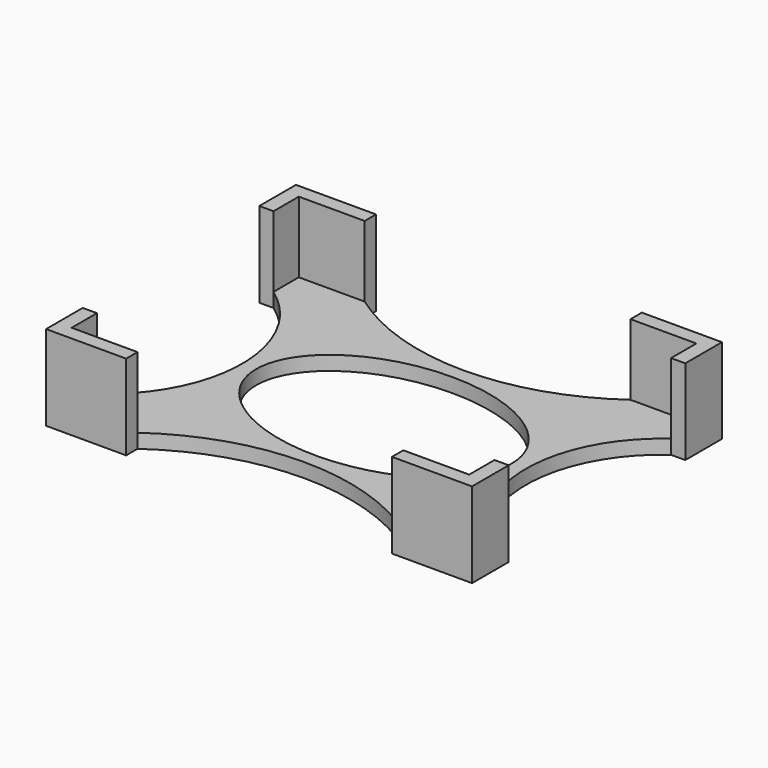
from build123d import *

# Parameters (mm, degrees)
F1_DEPTH = 3.175
F3_DEPTH = 19.05


with BuildPart() as f1:
    # F0 (on Top) → F1 (new body)
    with BuildSketch(Plane.XY):
        with BuildLine():
            Line((-44.45, 31.75), (-44.45, 24.678504))
            ThreePointArc((-44.45, 24.678504), (-31.75, 0), (-44.45, -24.678504))
            Line((-44.45, -24.678504), (-44.45, -31.75))
            Line((-44.45, -31.75), (-29.72243, -31.75))
            ThreePointArc((-29.72243, -31.75), (0, -22.225), (29.72243, -31.75))
            Line((29.72243, -31.75), (44.45, -31.75))
            Line((44.45, -31.75), (44.45, -24.678504))
            ThreePointArc((44.45, -24.678504), (31.75, 0), (44.45, 24.678504))
            Line((44.45, 24.678504), (44.45, 31.75))
            Line((44.45, 31.75), (29.72243, 31.75))
            ThreePointArc((29.72243, 31.75), (0, 22.225), (-29.72243, 31.75))
            Line((-29.72243, 31.75), (-44.45, 31.75))
        make_face()
        with BuildLine():
            add(Edge.make_bspline(
                [(28.575, 0), (28.575, 32.995568), (-14.2875, 16.497784), (-57.15, 0), (-14.2875, -16.497784), (28.575, -32.995568), (28.575, 0)],
                knots=[0, 0, 0, 2.094395, 2.094395, 4.18879, 4.18879, 6.283185, 6.283185, 6.283185], degree=2, weights=[1, 0.5, 1, 0.5, 1, 0.5, 1]))
        make_face(mode=Mode.SUBTRACT)
    extrude(amount=F1_DEPTH)

    # F2 (on Top) → F3 (join)
    with BuildSketch(Plane.XY):
        Polygon((-47.625, 24.678504), (-44.45, 24.678504), (-44.45, 31.75), (-29.72243, 31.75), (-29.72243, 34.925), (-47.625, 34.925), align=None)
        Polygon((29.72243, 31.75), (44.45, 31.75), (44.45, 24.678504), (47.625, 24.678504), (47.625, 34.925), (29.72243, 34.925), align=None)
        Polygon((-44.45, -31.75), (-44.45, -24.678504), (-47.625, -24.678504), (-47.625, -34.925), (-29.72243, -34.925), (-29.72243, -31.75), align=None)
        Polygon((47.625, -24.678504), (44.45, -24.678504), (44.45, -31.75), (29.72243, -31.75), (29.72243, -34.925), (47.625, -34.925), align=None)
    extrude(amount=F3_DEPTH)


solid = f1.part
